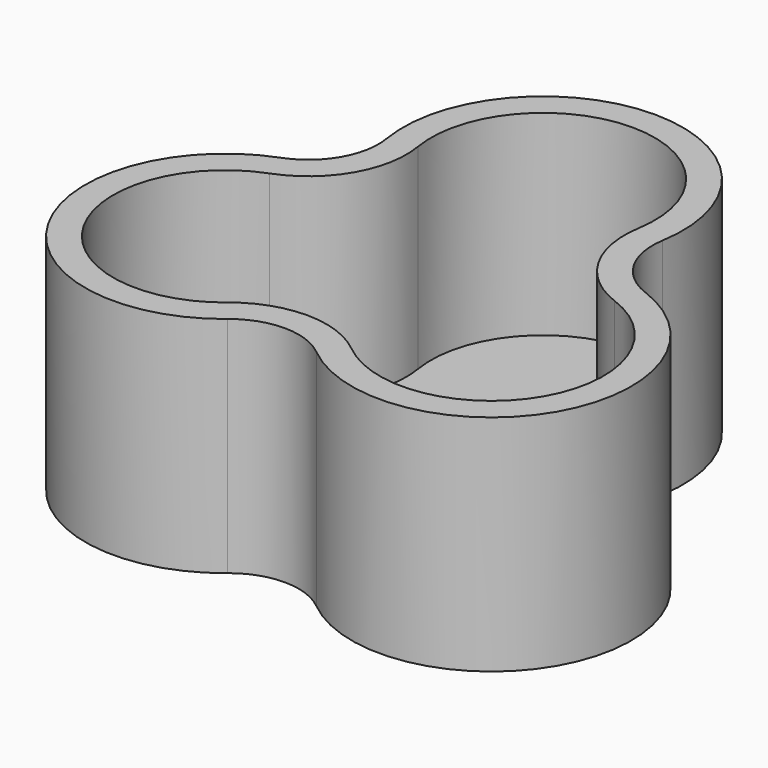
from build123d import *

# Parameters (mm, degrees)
F1_DEPTH = 20.32
F2_T     = -2.54


with BuildPart() as f1:
    # F0 (on Top) → F1 (new body)
    with BuildSketch(Plane.XY):
        with BuildLine():
            ThreePointArc((-4.032792, -16.795014), (0, -15.35002), (4.032792, -16.795014))
            ThreePointArc((4.032792, -16.795014), (23.096898, -13.335), (16.561304, 4.905007))
            ThreePointArc((16.561304, 4.905007), (13.293508, 7.67501), (12.528513, 11.890007))
            ThreePointArc((12.528513, 11.890007), (0, 26.67), (-12.528513, 11.890007))
            ThreePointArc((-12.528513, 11.890007), (-13.293508, 7.67501), (-16.561304, 4.905007))
            ThreePointArc((-16.561304, 4.905007), (-23.096898, -13.335), (-4.032792, -16.795014))
        make_face()
    extrude(amount=F1_DEPTH)

    # F2
    f2_openings = [f1.faces().sort_by_distance(p)[0] for p in [
        (0, 0, 20.32),
    ]]
    offset(amount=F2_T, openings=f2_openings)


solid = f1.part
